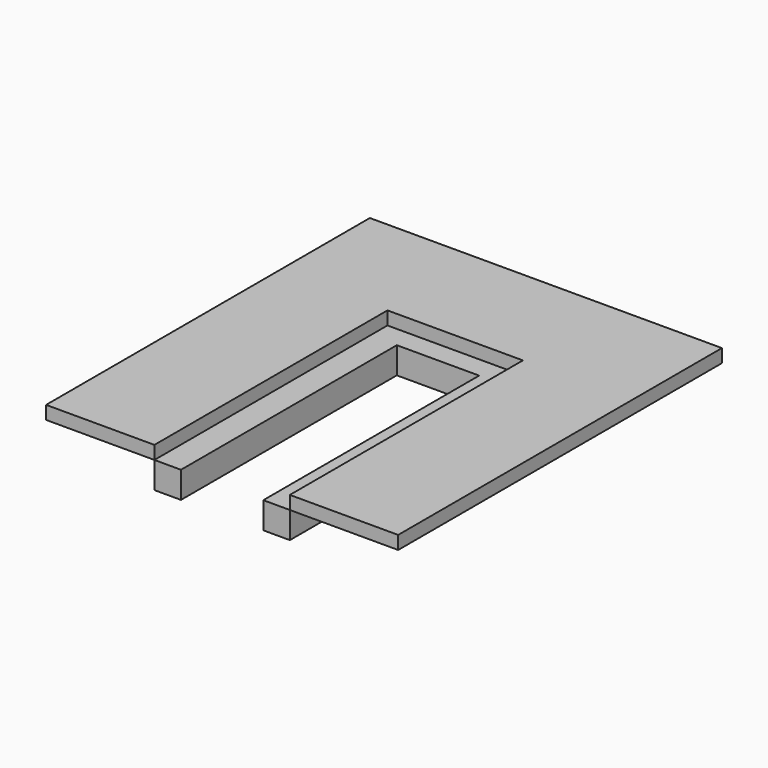
from build123d import *

# Parameters (mm, degrees)
F1_DEPTH = 5
F3_DEPTH = 2.5


with BuildPart() as f1:
    # F0 (on Top) → F1 (new body)
    with BuildSketch(Plane.XY):
        Polygon((-35.608588, 60.564373), (-35.608588, 35.775255), (-35.608588, 5.714647), (-30.608588, 5.714647), (-30.608588, 56.514647), (-15.108588, 56.514647), (-15.108588, 5.714647), (-10.108588, 5.714647), (-10.108588, 35.775255), (-10.108588, 60.564373), align=None)
    extrude(amount=F1_DEPTH)


with BuildPart() as f3:
    # F2 (on face) → F3 (new body)
    with BuildSketch(Plane.XY.offset(5)):
        Polygon((-56.008588, 5.714647), (-35.608588, 5.714647), (-35.608588, 60.564373), (-10.108588, 60.564373), (-10.108588, 5.714647), (10.291412, 5.714647), (10.291412, 73.737219), (10.291412, 81.914647), (-22.858588, 81.914647), (-56.008588, 81.914647), (-56.008588, 73.737219), align=None)
    extrude(amount=F3_DEPTH)


solid = Compound([f1.part, f3.part])
